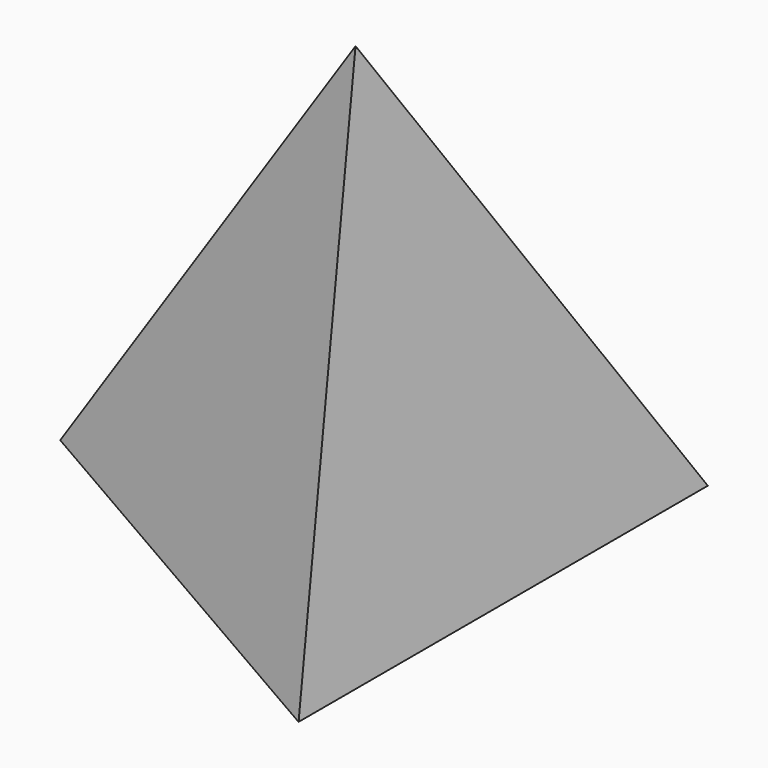
from build123d import *


with BuildPart() as f2:
    # F0 (on Top) → F2 section 0
    with BuildSketch(Plane.XY, mode=Mode.PRIVATE) as f2_s0:
        Polygon((8.660254, -15), (8.660254, 15), (-17.320508, 0), align=None)
    loft([f2_s0.sketch, Vertex(0, 0, 25.98076)])


solid = f2.part
